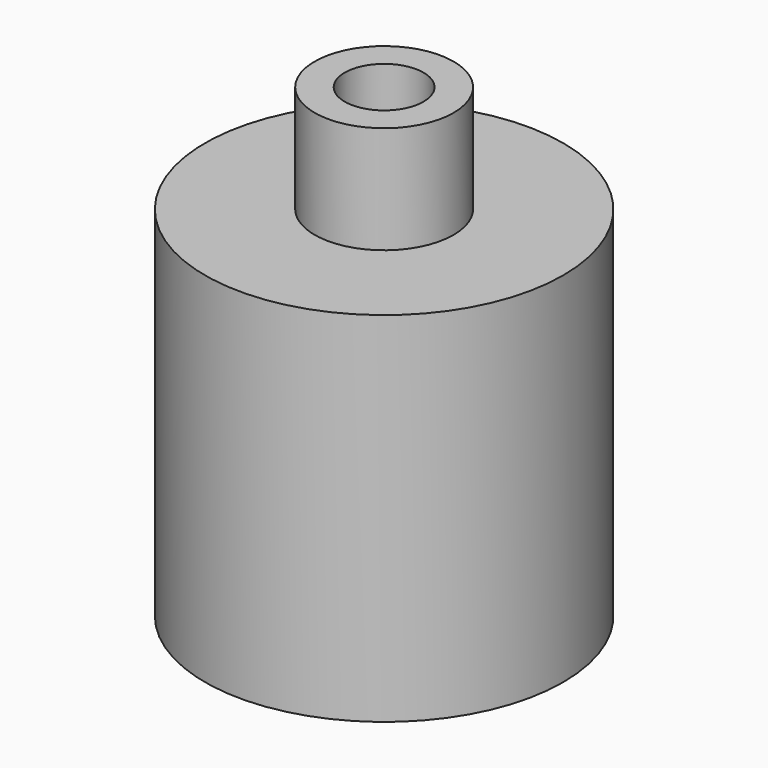
from build123d import *

# Parameters (mm, degrees)
SKETCH015_R   = 2.5
SKETCH015_R_2 = 0.5
PAD010_DEPTH  = 1
SKETCH017_R   = 0.97
SKETCH017_R_2 = 0.55
PAD011_DEPTH  = 1.5
SKETCH303_R   = 2.5
SKETCH303_R_2 = 1.5
PAD208_DEPTH  = 4
CHAMFER_SIZE  = 0.95


with BuildPart() as part:
    # Sketch015 → Pad010 (new body)
    with BuildSketch(Plane.XY):
        Circle(SKETCH015_R)
        Circle(SKETCH015_R_2, mode=Mode.SUBTRACT)
    extrude(amount=PAD010_DEPTH)

    # Sketch017 (on Face4 of Pad010) → Pad011 (join)
    with BuildSketch(Plane.XY.offset(1)):
        Circle(SKETCH017_R)
        Circle(SKETCH017_R_2, mode=Mode.SUBTRACT)
    extrude(amount=PAD011_DEPTH)

    # Sketch303 (on Face2 of Pad011) → Pad208 (join)
    with BuildSketch(Plane(origin=(0, 0, 0), x_dir=(1, 0, 0), z_dir=(0, 0, -1))):
        Circle(SKETCH303_R)
        Circle(SKETCH303_R_2, mode=Mode.SUBTRACT)
    extrude(amount=PAD208_DEPTH)

    # Chamfer
    chamfer_edges = [part.edges().sort_by_distance(p)[0] for p in [
        (-1.5, 0, 0),
    ]]
    chamfer(chamfer_edges, length=CHAMFER_SIZE)


with BuildPart() as part_1:
    # Body007 placement: moved
    add(part.part.moved(Location((0, 0, -2.2))))


solid = part_1.part
